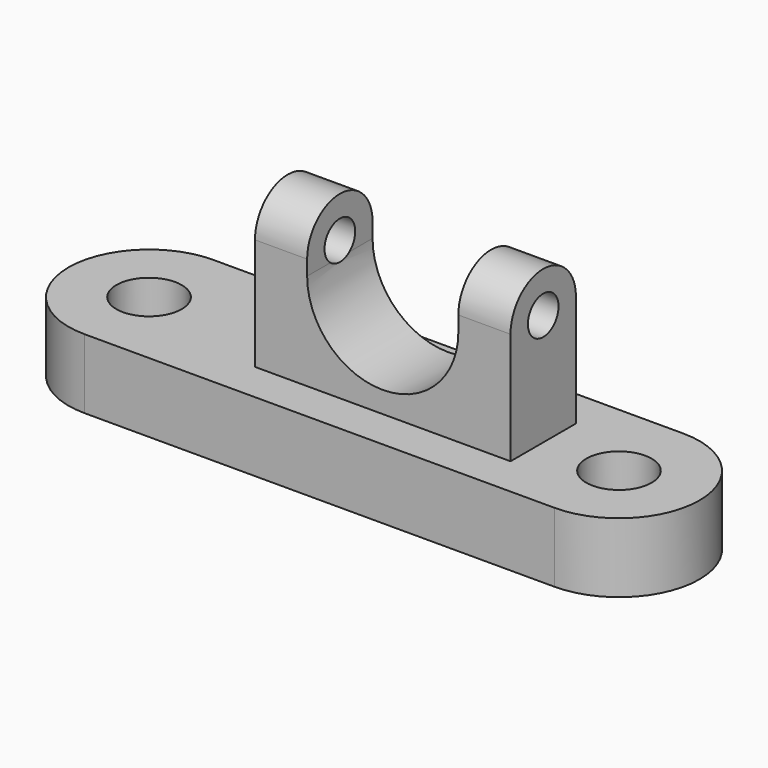
from build123d import *

# Parameters (mm, degrees)
F0_R     = 8.121516
F1_DEPTH = 17.272
F2_R     = 4.756844
F3_DEPTH = 31.75
F5_DEPTH = 12.7


with BuildPart() as f1:
    # F0 (on Top) → F1 (new body)
    with BuildSketch(Plane.XY):
        with BuildLine():
            Line((50.573271, 20.002603), (-66.208519, 20.002603))
            ThreePointArc((-66.208519, 20.002603), (-86.211122, 0), (-66.208519, -20.002603))
            Line((-66.208519, -20.002603), (50.573271, -20.002603))
            ThreePointArc((50.573271, -20.002603), (70.575874, 0), (50.573271, 20.002603))
        make_face()
        with Locations((-66.208519, 0)):
            Circle(F0_R, mode=Mode.SUBTRACT)
        with Locations((50.573271, 0)):
            Circle(F0_R, mode=Mode.SUBTRACT)
    extrude(amount=F1_DEPTH)


with BuildPart() as f3:
    # F2 (on Right) → F3 (new body, symmetric)
    with BuildSketch(Plane.YZ):
        with BuildLine():
            Line((-10.16, 45.130305), (-10.16, 17.331807))
            Line((-10.16, 17.331807), (10.16, 17.331807))
            Line((10.16, 17.331807), (10.16, 45.130305))
            ThreePointArc((10.16, 45.130305), (0, 55.290305), (-10.16, 45.130305))
        make_face()
        with Locations((0, 45.130305)):
            Circle(F2_R, mode=Mode.SUBTRACT)
    extrude(amount=F3_DEPTH, both=True)

    # F4 (on Front) → F5 (cut, symmetric)
    with BuildSketch(Plane.XZ):
        with BuildLine():
            Line((-18.787204, 67.077145), (-18.787204, 41.404452))
            ThreePointArc((-18.787204, 41.404452), (0, 22.617248), (18.787204, 41.404452))
            Line((18.787204, 41.404452), (18.787204, 67.270167))
            Line((18.787204, 67.270167), (-18.787204, 67.077145))
        make_face()
    extrude(amount=F5_DEPTH, both=True, mode=Mode.SUBTRACT)


solid = Compound([f1.part, f3.part])
